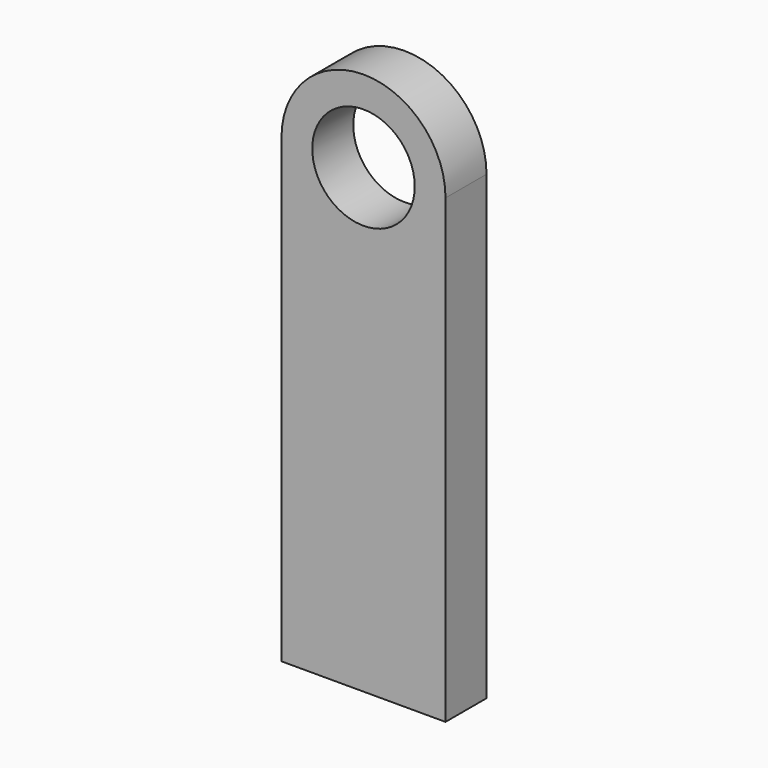
from build123d import *

# Parameters (mm, degrees)
F0_R     = 127
F1_DEPTH = 63.5


with BuildPart() as f1:
    # F0 (on Front) → F1 (new body, symmetric)
    with BuildSketch(Plane.XZ):
        with BuildLine():
            Line((-203.2, 0), (-203.2, -1143))
            Line((-203.2, -1143), (203.2, -1143))
            Line((203.2, -1143), (203.2, 0))
            ThreePointArc((203.2, 0), (0, 203.2), (-203.2, 0))
        make_face()
        Circle(F0_R, mode=Mode.SUBTRACT)
    extrude(amount=F1_DEPTH, both=True)


solid = f1.part
